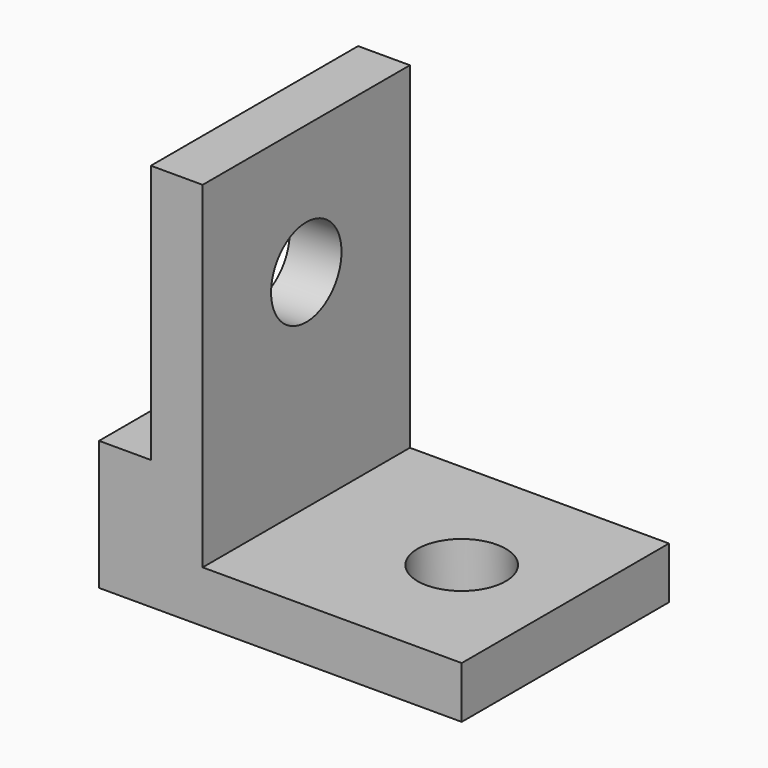
from build123d import *

# Parameters (mm, degrees)
F1_DEPTH = 10
F3_D     = 3.4
F5_D     = 3.4


with BuildPart() as f1:
    # F0 (on Front) → F1 (new body)
    with BuildSketch(Plane.XZ):
        Polygon((0, 5), (0, 0), (14, 0), (14, 2), (4, 2), (4, 15), (2, 15), (2, 5), align=None)
    extrude(amount=F1_DEPTH)

    # F3 (through all)
    with Locations(Plane.YZ.offset(4)):
        with Locations((-5, 10)):
            Hole(F3_D / 2)

    # F5 (through all)
    with Locations(Plane.XY.offset(2)):
        with Locations((10, -5)):
            Hole(F5_D / 2)


solid = f1.part
